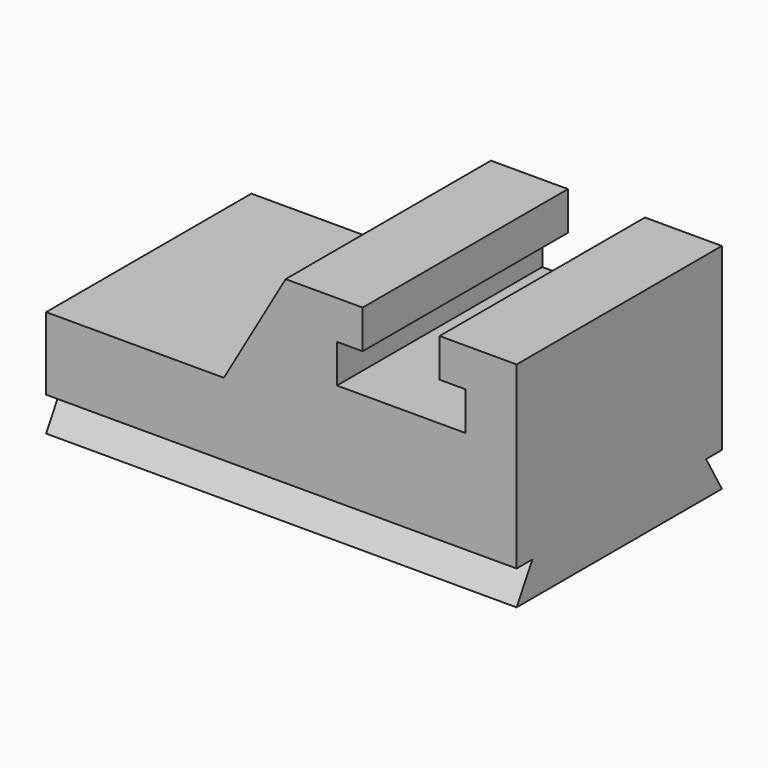
from build123d import *

# Parameters (mm, degrees)
F1_DEPTH = 1524
F3_DEPTH = 2794.001
F5_DEPTH = 2794.001


with BuildPart() as f1:
    # F0 (on Front) → F1 (new body)
    with BuildSketch(Plane.XZ):
        Polygon((0, 635), (0, 0), (2794, 0), (2794, 1270), (2336.8, 1270), (2336.8, 1041.4), (2489.2, 1041.4), (2489.2, 812.8), (1727.2, 812.8), (1727.2, 1041.4), (1879.6, 1041.4), (1879.6, 1270), (1422.4, 1270), (1055.782579, 635), align=None)
    extrude(amount=F1_DEPTH)

    # F2 (on face) → F3 (cut, through all)
    with BuildSketch(Plane(origin=(0, 0, 0), x_dir=(0, -1, 0), z_dir=(-1, 0, 0))):
        Polygon((0, 203.2), (0, 0), (117.317575, 203.2), align=None)
    extrude(amount=-F3_DEPTH, mode=Mode.SUBTRACT)

    # F4 (on face) → F5 (cut, through all)
    with BuildSketch(Plane(origin=(0, 0, 0), x_dir=(0, -1, 0), z_dir=(-1, 0, 0))):
        Polygon((1406.682425, 203.2), (1524, 0), (1524, 203.2), align=None)
    extrude(amount=-F5_DEPTH, mode=Mode.SUBTRACT)


solid = f1.part
